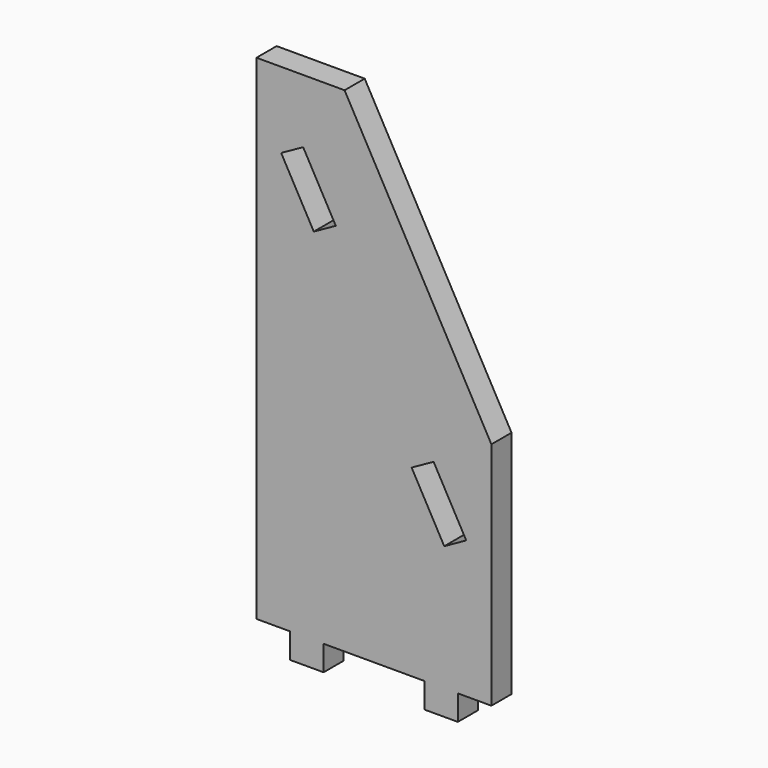
from build123d import *

# Parameters (mm, degrees)
F0_W     = 25.4
F0_H     = 19.05
F1_DEPTH = 19.05
F3_DEPTH = 19.051


with BuildPart() as f1:
    # F0 (on Front) → F1 (new body)
    with BuildSketch(Plane.XZ):
        Polygon((93.3704, -10.24128), (-17.78, 189.60592), (-84.4804, 189.60592), (-84.4804, -184.48528), (-59.0804, -184.48528), (-33.6804, -184.48528), (42.5704, -184.48528), (67.9704, -184.48528), (93.3704, -184.48528), align=None)
        with Locations((55.2704, -194.01028)):
            Rectangle(F0_W, F0_H)
        with Locations((-46.3804, -194.01028)):
            Rectangle(F0_W, F0_H)
    extrude(amount=F1_DEPTH)

    # F2 (on face) → F3 (cut, through all)
    with BuildSketch(Plane.XZ.offset(19.05)):
        Polygon((-24.446551, 97.077993), (-49.138289, 141.473467), (-65.786592, 132.214065), (-41.094854, 87.818592), align=None)
        Polygon((49.628662, -36.108428), (32.98036, -45.367829), (57.672097, -89.763303), (74.3204, -80.503901), align=None)
    extrude(amount=-F3_DEPTH, mode=Mode.SUBTRACT)


solid = f1.part
